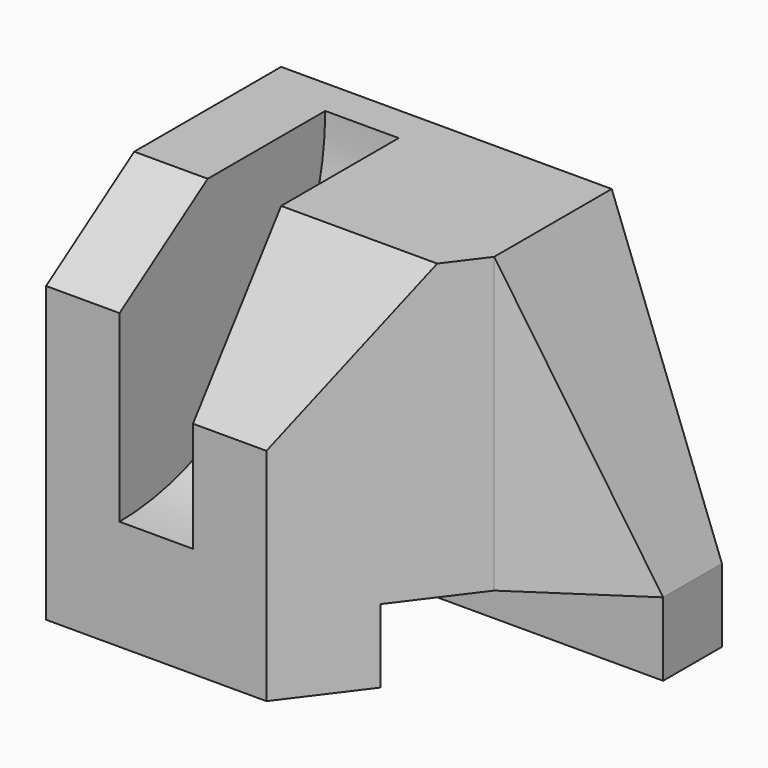
from build123d import *

# Parameters (mm, degrees)
F0_W      = 60
F0_H      = 40
F1_DEPTH  = 50
F2_W      = 20
F2_H      = 10
F3_DEPTH  = 60.001
F5_R      = 35
F6_DEPTH  = 10
F8_DEPTH  = 50.001
F10_DEPTH = 10
F12_DEPTH = 40.001
F14_DEPTH = 40.001


with BuildPart() as f1:
    # F0 (on Top) → F1 (new body)
    with BuildSketch(Plane.XY):
        with Locations((30, 20)):
            Rectangle(F0_W, F0_H)
    extrude(amount=F1_DEPTH)

    # F2 (on face) → F3 (cut, through all)
    with BuildSketch(Plane.YZ.offset(60)):
        with Locations((20, 5)):
            Rectangle(F2_W, F2_H)
    extrude(amount=-F3_DEPTH, mode=Mode.SUBTRACT)

    # F5 (on offset) → F6 (cut)
    with BuildSketch(Plane(origin=(20, 0, 0), x_dir=(0, -1, 0), z_dir=(-1, 0, 0))):
        with Locations((0, 50)):
            Circle(F5_R)
    extrude(amount=F6_DEPTH, mode=Mode.SUBTRACT)

    # F7 (on face) → F8 (cut, through all)
    with BuildSketch(Plane.XY.offset(50)):
        Polygon((40, 0), (60, 0), (60, 30), (45, 20), (30, 0), align=None)
    extrude(amount=-F8_DEPTH, mode=Mode.SUBTRACT)

    # F9 (on face) → F10 (cut, through all)
    with BuildSketch(Plane(origin=(0, 0, 0), x_dir=(0, -1, 0), z_dir=(-1, 0, 0))):
        Polygon((0, 40), (0, 50), (-15, 50), align=None)
    extrude(amount=-F10_DEPTH, mode=Mode.SUBTRACT)

    # F11 (on offset) → F12 (cut, through all)
    with BuildSketch(Plane(origin=(20, 0, 0), x_dir=(0, -1, 0), z_dir=(-1, 0, 0))):
        Polygon((-15, 50), (0, 30), (0, 50), align=None)
    extrude(amount=-F12_DEPTH, mode=Mode.SUBTRACT)

    # F13 (on face) → F14 (cut, through all)
    with BuildSketch(Plane(origin=(0, 40, 0), x_dir=(-1, 0, 0), z_dir=(0, 1, 0))):
        Polygon((-45, 50), (-60, 50), (-60, 10), align=None)
    extrude(amount=-F14_DEPTH, mode=Mode.SUBTRACT)


solid = f1.part
